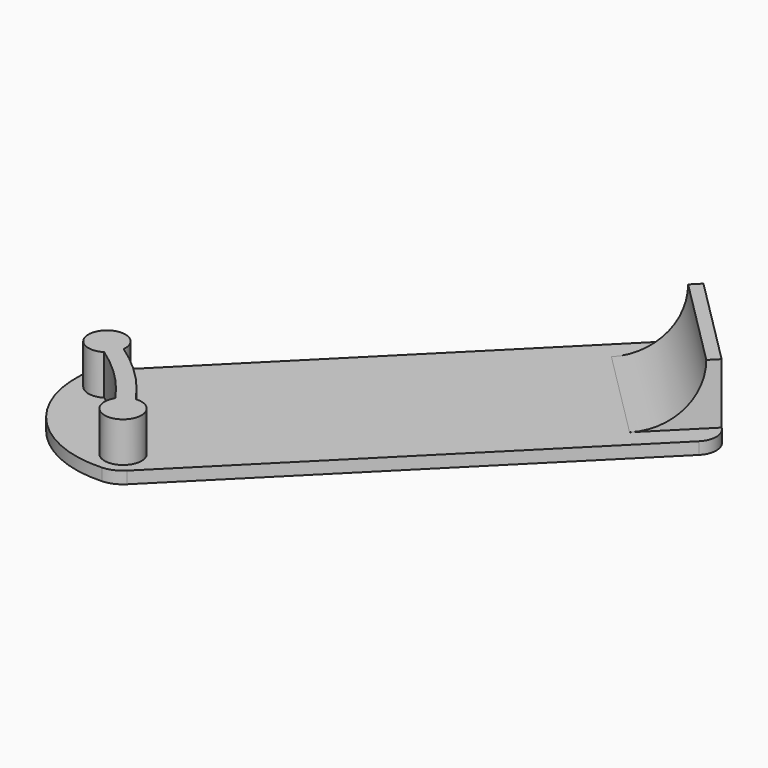
from build123d import *

# Parameters (mm, degrees)
PAD033_DEPTH            = 3
SKETCH041_R             = 4.6
PAD032_DEPTH            = 10
PAD035_DEPTH            = 16
PAD036_DEPTH            = 10
BODY010_PLACEMENT_ANGLE = 45


with BuildPart() as part:
    # Sketch042 → Pad033 (new body)
    with BuildSketch(Plane.XY):
        with BuildLine():
            Line((165, 21.235047), (53.12592, 21.235047))
            ThreePointArc((53.12592, 21.235047), (50.610162, 20.767349), (48.43058, 19.42675))
            ThreePointArc((48.43058, 19.42675), (39.806811, 0), (48.43058, -19.42675))
            ThreePointArc((48.43058, -19.42675), (50.610162, -20.767349), (53.12592, -21.235047))
            Line((53.12592, -21.235047), (165, -21.235047))
            ThreePointArc((165, -21.235047), (168.535534, -19.770581), (170, -16.235047))
            Line((170, -16.235047), (170, 16.235047))
            ThreePointArc((170, 16.235047), (168.535534, 19.770581), (165, 21.235047))
        make_face()
    extrude(amount=-PAD033_DEPTH)

    # Sketch041 → Pad032 (join)
    with BuildSketch(Plane.XY):
        with Locations((53.12592, 14.235047)):
            Circle(SKETCH041_R)
        with Locations((53.12592, -14.235047)):
            Circle(SKETCH041_R)
    extrude(amount=PAD032_DEPTH)

    # Sketch045 → Pad035 (join, symmetric)
    with BuildSketch(Plane.XZ):
        with BuildLine():
            Line((170, 0), (170, 15))
            Line((170, 15), (167, 15))
            ThreePointArc((152, 0), (162.606602, 4.393398), (167, 15))
            Line((152, 0), (170, 0))
        make_face()
    extrude(amount=PAD035_DEPTH, both=True)

    # Sketch046 → Pad036 (join)
    with BuildSketch(Plane.XY):
        with BuildLine():
            ThreePointArc((55.057772, 14.752686), (52.608282, 16.166899), (51.194069, 13.717409))
            ThreePointArc((51.194069, -13.717409), (53, 0), (51.194069, 13.717409))
            ThreePointArc((51.194069, -13.717409), (52.608281, -16.166899), (55.057771, -14.752689))
            ThreePointArc((55.057771, -14.752689), (57, -2e-06), (55.057772, 14.752686))
        make_face()
    extrude(amount=PAD036_DEPTH)


with BuildPart() as part_1:
    # Body010 placement: moved
    add(part.part.moved(Location((0, 0, -245))).rotate(Axis((0, 0, -245), (0, 0, 1)), BODY010_PLACEMENT_ANGLE))


solid = part_1.part
